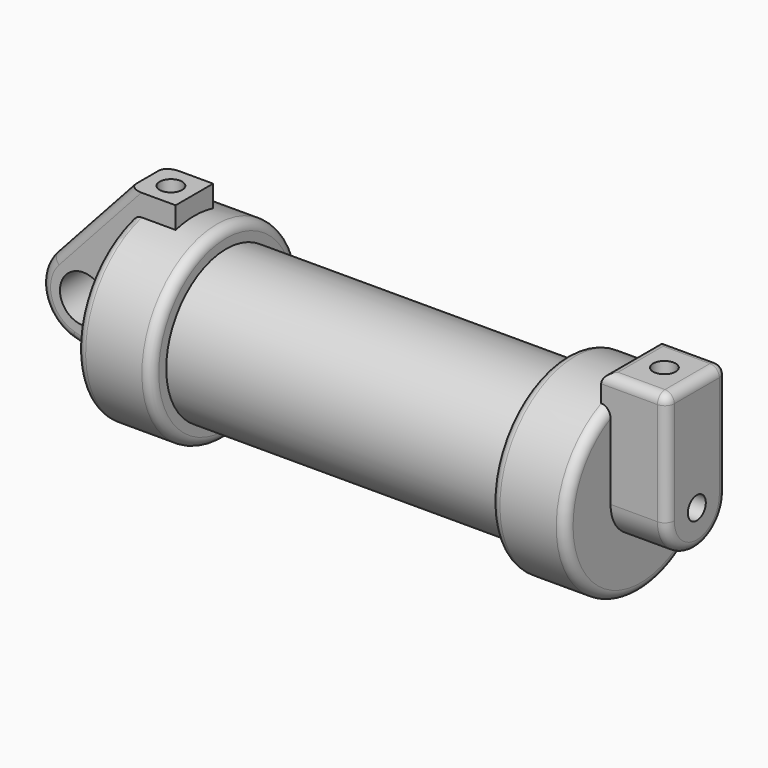
from build123d import *

# Parameters (mm, degrees)
F0_W          = 5.842
F0_H          = 12.7
F0_R          = 3.175
F2_DEPTH      = 3.175
F3_R          = 1.524
F4_DEPTH      = 7.62
F4_DEPTH_BACK = 1.27
F6_DEPTH      = 56.134
F5_R          = 1.524
F7_DEPTH      = 17.78
F8_R          = 1.27


with BuildPart() as f1:
    # F0 (on Front) → F1 (revolve)
    with BuildSketch(Plane.XZ):
        Polygon((5.842, 12.7), (5.842, 0), (66.294, 0), (66.294, 12.7), (56.134, 12.7), (56.134, 10.16), (10.16, 10.16), (10.16, 12.7), align=None)
        with Locations((2.921, 6.35)):
            Rectangle(F0_W, F0_H)
    revolve(axis=Axis((33.147, 0, 0), (-1, 0, 0)))

    # F0 (on Front) → F2 (join, symmetric)
    with BuildSketch(Plane.XZ):
        with BuildLine():
            Line((-0.9398, 0), (0, 0))
            Line((0, 0), (0, 12.7))
            Line((0, 12.7), (5.842, 12.7))
            Line((5.842, 12.7), (5.842, 15.24))
            Line((5.842, 15.24), (-0.508, 15.24))
            Line((-0.508, 15.24), (-10.8806298187, 3.8475430269))
            ThreePointArc((-10.8806298187, 3.8475430269), (-4.5919612295, 5.3297205562), (-0.9398, 0))
        make_face()
        with BuildLine():
            ThreePointArc((-8.1826630726, -5.5069827884), (-3.1957909266, -4.5493385486), (-0.9398, 0))
            ThreePointArc((-0.9398, 0), (-4.5919612295, 5.3297205562), (-10.8806298187, 3.8475430269))
            ThreePointArc((-10.8806298187, 3.8475430269), (-12.1459778134, -1.5837270034), (-8.1826630726, -5.5069827884))
        make_face()
        with Locations((-6.6548, 0)):
            Circle(F0_R, mode=Mode.SUBTRACT)
        with BuildLine():
            Line((5.842, 0), (0, 0))
            Line((0, 0), (-0.9398, 0))
            ThreePointArc((-0.9398, 0), (-3.1957909266, -4.5493385486), (-8.1826630726, -5.5069827884))
            Line((-8.1826630726, -5.5069827884), (5.842, -9.398))
            Line((5.842, -9.398), (5.842, 0))
        make_face()
        with Locations((2.921, 6.35)):
            Rectangle(F0_W, F0_H)
    extrude(amount=F2_DEPTH, both=True)

    # F3 (on face) → F4 (join, two sides)
    with BuildSketch(Plane.YZ.offset(66.294)) as f4_sk:
        with BuildLine():
            ThreePointArc((-5.08, 0), (0, 5.08), (5.08, 0))
            Line((5.08, 0), (5.08, 11.6397422652))
            ThreePointArc((5.08, 11.6397422652), (0, 12.7), (-5.08, 11.6397422652))
            Line((-5.08, 11.6397422652), (-5.08, 0))
        make_face()
        with BuildLine():
            ThreePointArc((-5.08, 0), (0, -5.08), (5.08, 0))
            ThreePointArc((5.08, 0), (0, 5.08), (-5.08, 0))
        make_face()
        Circle(F3_R, mode=Mode.SUBTRACT)
        with BuildLine():
            ThreePointArc((-5.08, 11.6397422652), (0, 12.7), (5.08, 11.6397422652))
            Line((5.08, 11.6397422652), (5.08, 15.24))
            Line((5.08, 15.24), (-5.08, 15.24))
            Line((-5.08, 15.24), (-5.08, 11.6397422652))
        make_face()
    extrude(amount=F4_DEPTH)
    extrude(f4_sk.sketch, amount=-F4_DEPTH_BACK)

    # F6 (cut, through all): a face of the model
    f6_faces = [f1.faces().sort_by_distance(p)[0] for p in [
        (66.294, 0, 0),
    ]]
    extrude(f6_faces, amount=-F6_DEPTH, mode=Mode.SUBTRACT)

    # F5 (on face) → F7 (cut)
    with BuildSketch(Plane.XY.offset(15.24)):
        with Locations((2.667, 0)):
            Circle(F5_R)
        with Locations((69.4496968898, 0.0883711446)):
            Circle(F5_R)
    extrude(amount=-F7_DEPTH, mode=Mode.SUBTRACT)

    # F8
    f8_edges = [f1.edges().sort_by_distance(p)[0] for p in [
        (10.16, 0, -12.7),
        (56.134, 0, -12.7),
        (0, 0, -12.7),
        (66.294, 0, -12.7),
        (-5.694315, -3.175, 9.543772),
        (-5.694315, 3.175, 9.543772),
        (-4.091332, 3.175, -6.642086),
        (-4.091332, -3.175, -6.642086),
        (69.469, 5.08, 15.24),
        (73.914, 0, 15.24),
        (69.469, -5.08, 15.24),
        (65.024, 0, 15.24),
        (73.914, -5.08, 7.62),
        (73.914, 5.08, 7.62),
    ]]
    fillet(f8_edges, radius=F8_R)


solid = f1.part
